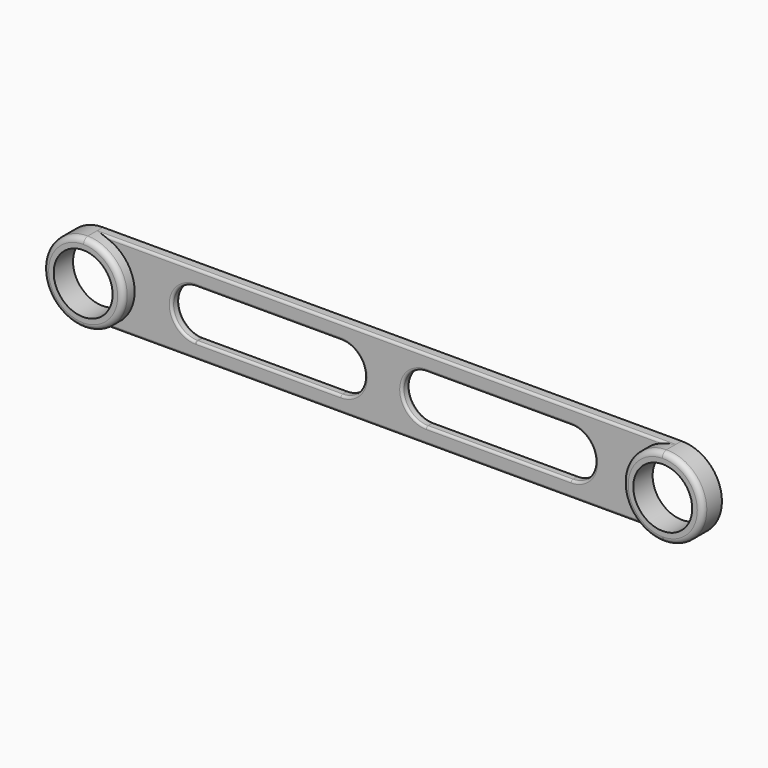
from build123d import *

# Parameters (mm, degrees)
F0_R     = 6.1
F1_DEPTH = 5
F2_DEPTH = 2
F3_R     = 1.1
F4_R     = 1.1
F5_R     = 0.5
F6_DEPTH = 10
F7_R     = 0.5


with BuildPart() as f1:
    # F0 (on Front) → F1 (new body)
    with BuildSketch(Plane.XZ):
        with BuildLine():
            ThreePointArc((-42.8828642556, -8.2970239287), (-37.1164977419, -5.8444671938), (-34.7367391172, -0.0476778932))
            ThreePointArc((-34.7367391172, -0.0476778932), (-37.1164933676, 5.7491069777), (-42.8828518055, 8.2016679855))
            ThreePointArc((-42.8828518055, 8.2016679855), (-51.2367391172, -0.0476716677), (-42.8828642556, -8.2970239287))
        make_face()
        with Locations((-42.9867391172, -0.0476778932)):
            Circle(F0_R, mode=Mode.SUBTRACT)
    extrude(amount=F1_DEPTH)

    # F3
    f3_edges = [f1.edges().sort_by_distance(p)[0] for p in [
        (-43.090614, -5, 8.201668),
    ]]
    fillet(f3_edges, radius=F3_R)

    # F0 (on Front) → F6 (cut)
    with BuildSketch(Plane.XZ):
        with BuildLine():
            ThreePointArc((-21.9861062732, -5.0471766588), (-18.4964262699, -3.5580923501), (-17.0569024095, -0.0476778932))
            ThreePointArc((-17.0569024095, -0.0476778932), (-18.4294349079, 3.393467196), (-21.7934942194, 4.9453788986))
            ThreePointArc((-21.7934942194, 4.9453788986), (-27.0541054783, 0.1195390003), (-22.1278660026, -5.0471742847))
            Line((-22.1278660026, -5.0471742847), (-21.9861062732, -5.0471766588))
        make_face()
        with BuildLine():
            ThreePointArc((-21.7934942194, 4.9453788986), (-18.4294349079, 3.393467196), (-17.0569024095, -0.0476778932))
            ThreePointArc((-17.0569024095, -0.0476778932), (-18.4964262699, -3.5580923501), (-21.9861062732, -5.0471766588))
            Line((-21.9861062732, -5.0471766588), (7.9430138537, -5.0476778925))
            ThreePointArc((7.9430138537, -5.0476778925), (2.9430976198, -0.0482197622), (7.9419301157, 4.9523219705))
            Line((7.9419301157, 4.9523219705), (-21.7934942194, 4.9453788986))
        make_face()
        with BuildLine():
            ThreePointArc((12.9430975905, -0.0476778932), (11.4782187076, 3.4882687533), (7.9419301157, 4.9523219705))
            ThreePointArc((7.9419301157, 4.9523219705), (2.9430976198, -0.0482197622), (7.9430138537, -5.0476778925))
            ThreePointArc((7.9430138537, -5.0476778925), (11.4786018909, -3.5832414044), (12.9430975905, -0.0476778932))
        make_face()
    extrude(amount=-F6_DEPTH, mode=Mode.SUBTRACT)


with BuildPart() as f1b:
    # F0 (on Front) → F1, piece 2 (new body)
    with BuildSketch(Plane.XZ):
        with BuildLine():
            ThreePointArc((85.2632608828, -0.0476778932), (82.8100457537, 5.8225678564), (76.9093735712, 8.2016679855))
            ThreePointArc((76.9093735712, 8.2016679855), (68.7632608828, -0.0476841187), (76.9093860212, -8.2970239287))
            Line((76.9093860212, -8.2970239287), (77.1171357444, -8.2970239287))
            ThreePointArc((77.1171357444, -8.2970239287), (82.8835022581, -5.8444671938), (85.2632608828, -0.0476778932))
        make_face()
        with Locations((77.0132608828, -0.0476778932)):
            Circle(F0_R, mode=Mode.SUBTRACT)
    extrude(amount=F1_DEPTH)

    # F4
    f4_edges = [f1b.edges().sort_by_distance(p)[0] for p in [
        (68.763261, -5, -0.047684),
    ]]
    fillet(f4_edges, radius=F4_R)


with BuildPart() as f2:
    # F0 (on Front) → F2 (new body)
    with BuildSketch(Plane.XZ):
        with BuildLine():
            ThreePointArc((-42.8828518055, 8.2016679855), (-37.1164933676, 5.7491069777), (-34.7367391172, -0.0476778932))
            ThreePointArc((-34.7367391172, -0.0476778932), (-37.1164977419, -5.8444671938), (-42.8828642556, -8.2970239287))
            Line((-42.8828642556, -8.2970239287), (76.9093860212, -8.2970239287))
            ThreePointArc((76.9093860212, -8.2970239287), (68.7632608828, -0.0476841187), (76.9093735712, 8.2016679855))
            Line((76.9093735712, 8.2016679855), (-42.8828518055, 8.2016679855))
        make_face()
        with BuildLine():
            ThreePointArc((-22.1278660026, -5.0471742847), (-27.0541054783, 0.1195390003), (-21.7934942194, 4.9453788986))
            Line((-21.7934942194, 4.9453788986), (7.9419301157, 4.9523219705))
            ThreePointArc((7.9419301157, 4.9523219705), (11.4782187076, 3.4882687533), (12.9430975905, -0.0476778932))
            ThreePointArc((12.9430975905, -0.0476778932), (11.4786018909, -3.5832414044), (7.9430138537, -5.0476778925))
            Line((7.9430138537, -5.0476778925), (-21.9861062732, -5.0471766588))
            ThreePointArc((-21.9861062732, -5.0471766588), (-22.0569861463, -5.0476778925), (-22.1278660026, -5.0471742847))
        make_face(mode=Mode.SUBTRACT)
        with BuildLine():
            ThreePointArc((25.6454287905, -5.0476778932), (20.6470405205, 0.0792658044), (25.8992343461, 4.9458762259))
            Line((25.8992343461, 4.9458762259), (55.6443452909, 4.9523219894))
            ThreePointArc((55.6443452909, 4.9523219894), (59.1805796007, 3.488239067), (60.6454287905, -0.0476778932))
            ThreePointArc((60.6454287905, -0.0476778932), (59.1809626964, -3.5832117991), (55.6454287905, -5.0476778932))
            Line((55.6454287905, -5.0476778932), (25.6454287905, -5.0476778932))
        make_face(mode=Mode.SUBTRACT)
    extrude(amount=F2_DEPTH)

    # F5
    f5_edges = [f2.edges().sort_by_distance(p)[0] for p in [
        (17.013261, -2, -8.297024),
        (17.013261, -2, 8.201668),
        (17.013261, 0, -8.297024),
    ]]
    fillet(f5_edges, radius=F5_R)

    # F7
    f7_edges = [f2.edges().sort_by_distance(p)[0] for p in [
        (12.943098, -2, -0.047136),
        (-6.925782, -2, 4.94885),
        (-27.055974, -2, 0.048682),
        (-7.021546, -2, -5.047427),
        (40.645429, -2, -5.047678),
        (20.647041, -2, 0.079266),
        (40.77179, -2, 4.949099),
        (60.645429, -2, -0.047136),
        (12.943098, 0, -0.047136),
        (-7.021546, 0, -5.047427),
        (-27.055974, 0, 0.048682),
        (-6.925782, 0, 4.94885),
        (40.77179, 0, 4.949099),
        (20.647041, 0, 0.079266),
        (40.645429, 0, -5.047678),
        (60.645429, 0, -0.047136),
    ]]
    fillet(f7_edges, radius=F7_R)


solid = Compound([f1.part, f1b.part, f2.part])
